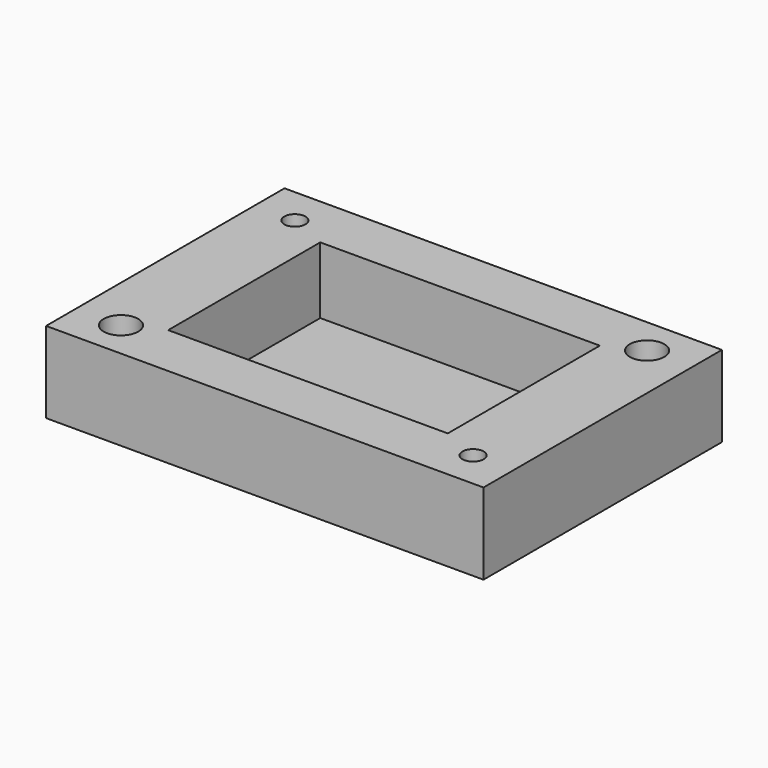
from build123d import *

# Parameters (mm, degrees)
F8_W      = 60.2088514067
F8_H      = 41.021
F9_DEPTH  = 11.176
F6_R      = 2.3749
F7_R      = 2.3749
F10_DEPTH = 12.192
F11_W     = 38.481
F11_H     = 26.162
F12_DEPTH = 9.1694
F13_DEPTH = 1.9558
F3_R      = 1.4605
F5_R      = 1.4605
F14_DEPTH = 12.192
F15_DEPTH = 1.9558


with BuildPart() as f9:
    # F8 (on Top) → F9 (new body)
    with BuildSketch(Plane.XY):
        Rectangle(F8_W, F8_H)
    extrude(amount=F9_DEPTH)

    # F6 (on face) + F7 (on face) → F10 (cut)
    with BuildSketch(Plane.XY):
        with Locations((-23.9141, -15.367)):
            Circle(F6_R)
    with BuildSketch(Plane.XY):
        with Locations((23.9141, 15.367)):
            Circle(F7_R)
    extrude(amount=F10_DEPTH, mode=Mode.SUBTRACT)

    # F11 (on face) → F12 (cut)
    with BuildSketch(Plane.XY.offset(11.176)):
        Rectangle(F11_W, F11_H)
    extrude(amount=-F12_DEPTH, mode=Mode.SUBTRACT)

    # F2 (on Top) → F13 (cut)
    with BuildSketch(Plane.XY):
        Polygon((-26.0612942775, 12.7635), (-23.0550314258, 12.7635), (-21.5519, 15.367), (-23.0550314258, 17.9705), (-26.0612942775, 17.9705), (-27.5644257033, 15.367), align=None)
    extrude(amount=F13_DEPTH, mode=Mode.SUBTRACT)

    # F3 (on face) + F5 (on face) → F14 (cut)
    with BuildSketch(Plane.XY):
        with Locations((-24.5581628517, 15.367)):
            Circle(F3_R)
    with BuildSketch(Plane.XY):
        with Locations((24.5581628517, -15.367)):
            Circle(F5_R)
    extrude(amount=F14_DEPTH, mode=Mode.SUBTRACT)

    # F4 (on face) → F15 (cut)
    with BuildSketch(Plane.XY):
        Polygon((23.0550314258, -17.9705), (26.0612942775, -17.9705), (27.5644257033, -15.367), (26.0612942775, -12.7635), (23.0550314258, -12.7635), (21.5519, -15.367), align=None)
    extrude(amount=F15_DEPTH, mode=Mode.SUBTRACT)


solid = f9.part
